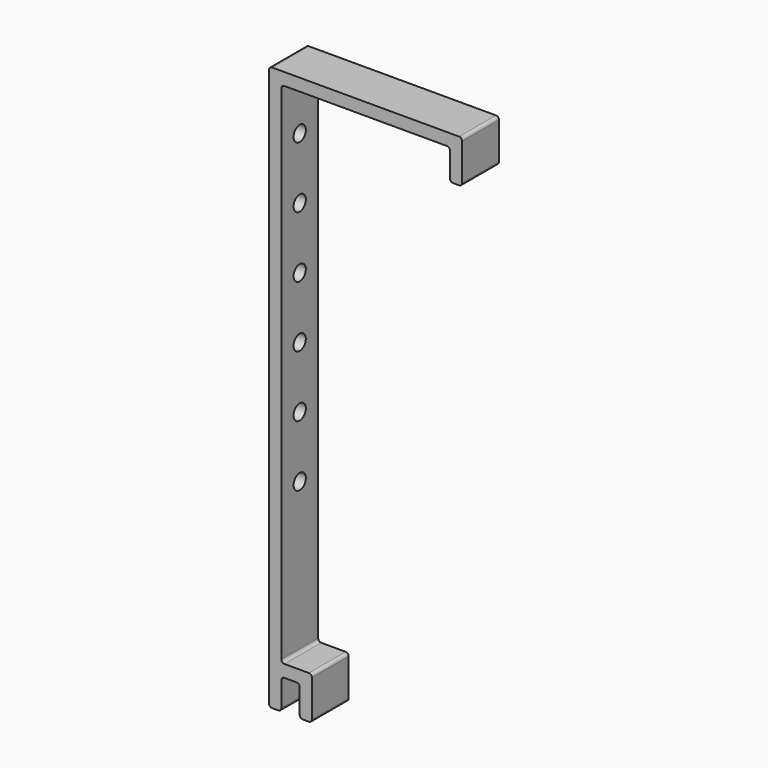
from build123d import *

# Parameters (mm, degrees)
F1_DEPTH = 15
F3_D     = 5


with BuildPart() as f1:
    # F0 (on Front) → F1 (new body)
    with BuildSketch(Plane.XZ):
        with BuildLine():
            ThreePointArc((-21.550011, -102.142804), (-22.257118, -101.849911), (-22.550011, -101.142804))
            Line((-22.550011, -101.142804), (-22.550011, 62.857196))
            ThreePointArc((-22.550011, 62.857196), (-22.257118, 63.564303), (-21.550011, 63.857196))
            Line((-21.550011, 63.857196), (31.449989, 63.857196))
            ThreePointArc((31.449989, 63.857196), (32.157096, 63.564303), (32.449989, 62.857196))
            Line((32.449989, 62.857196), (32.449989, 54.857196))
            ThreePointArc((32.449989, 54.857196), (32.742882, 54.150089), (33.449989, 53.857196))
            Line((33.449989, 53.857196), (35.449989, 53.857196))
            ThreePointArc((35.449989, 53.857196), (36.157096, 54.150089), (36.449989, 54.857196))
            Line((36.449989, 54.857196), (36.449989, 66.857196))
            ThreePointArc((36.449989, 66.857196), (36.157096, 67.564303), (35.449989, 67.857196))
            Line((35.449989, 67.857196), (-25.550011, 67.857196))
            ThreePointArc((-25.550011, 67.857196), (-26.257118, 67.564303), (-26.550011, 66.857196))
            Line((-26.550011, 66.857196), (-26.550011, -106.142804))
            Line((-26.550011, -106.142804), (-26.550011, -115.142804))
            ThreePointArc((-26.550011, -115.142804), (-26.257118, -115.849911), (-25.550011, -116.142804))
            Line((-25.550011, -116.142804), (-23.550011, -116.142804))
            ThreePointArc((-23.550011, -116.142804), (-22.842904, -115.849911), (-22.550011, -115.142804))
            Line((-22.550011, -115.142804), (-22.550011, -107.142804))
            ThreePointArc((-22.550011, -107.142804), (-22.257118, -106.435697), (-21.550011, -106.142804))
            Line((-21.550011, -106.142804), (-17.550011, -106.142804))
            ThreePointArc((-17.550011, -106.142804), (-16.842904, -106.435697), (-16.550011, -107.142804))
            Line((-16.550011, -107.142804), (-16.550011, -115.142804))
            ThreePointArc((-16.550011, -115.142804), (-16.257118, -115.849911), (-15.550011, -116.142804))
            Line((-15.550011, -116.142804), (-13.550011, -116.142804))
            ThreePointArc((-13.550011, -116.142804), (-12.842904, -115.849911), (-12.550011, -115.142804))
            Line((-12.550011, -115.142804), (-12.550011, -103.142804))
            ThreePointArc((-12.550011, -103.142804), (-12.842904, -102.435697), (-13.550011, -102.142804))
            Line((-13.550011, -102.142804), (-21.550011, -102.142804))
        make_face()
    extrude(amount=F1_DEPTH)

    # F3 (through all)
    with Locations(Plane.YZ):
        with Locations((-7.5, 26.857196), (-7.5, 46.857196), (-7.5, 6.857196), (-7.5, -13.142804), (-7.5, -33.142804), (-7.5, -53.142804)):
            Hole(F3_D / 2)


solid = f1.part
